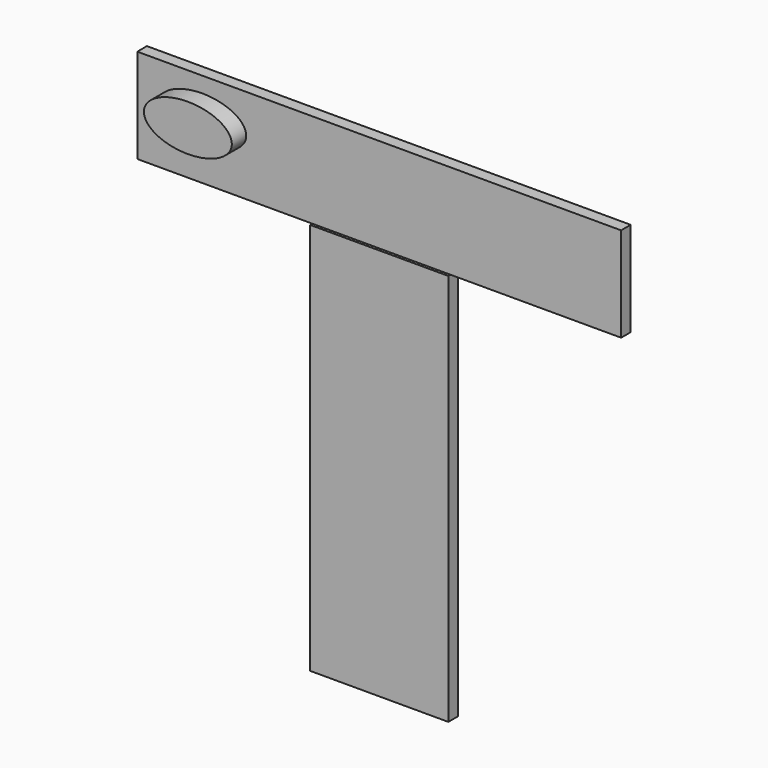
from build123d import *

# Parameters (mm, degrees)
F0_W     = 102.272466
F0_H     = 19.982033
F0_W_2   = 29.234672
F0_H_2   = 82.985648
F2_DEPTH = 2.54
F3_DEPTH = 6.35


with BuildPart() as f2:
    # F0 (on Front) → F2 (new body)
    with BuildSketch(Plane.XZ):
        with Locations((0, 51.871519)):
            Rectangle(F0_W, F0_H)
        with Locations((0, 51.871519)):
            Rectangle(F0_W, F0_H)
        Rectangle(F0_W_2, F0_H_2)
    extrude(amount=F2_DEPTH)

    # F1 (on Front) → F3 (join)
    with BuildSketch(Plane.XZ):
        with BuildLine():
            add(Edge.make_bspline(
                [(-28.108174, 53.68413), (-28.108174, 62.13496), (-42.045399, 57.909545), (-55.982623, 53.68413), (-42.045399, 49.458715), (-28.108174, 45.233301), (-28.108174, 53.68413)],
                knots=[0, 0, 0, 2.094395, 2.094395, 4.18879, 4.18879, 6.283185, 6.283185, 6.283185], degree=2, weights=[1, 0.5, 1, 0.5, 1, 0.5, 1]))
        make_face()
    extrude(amount=F3_DEPTH)


solid = f2.part
